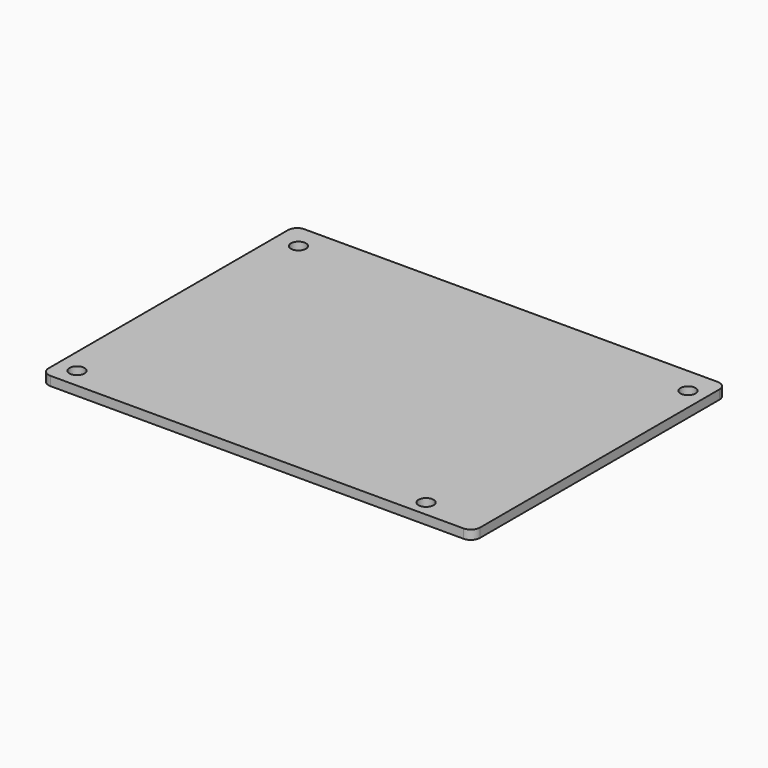
from build123d import *

# Parameters (mm, degrees)
F0_W     = 94.57797
F0_H     = 69.60828
F0_R     = 1.65
F1_DEPTH = 2
F2_R     = 2


with BuildPart() as f1:
    # F0 (on Top) → F1 (new body)
    with BuildSketch(Plane.XY):
        Rectangle(F0_W, F0_H)
        with BuildLine():
            Line((45.288985, 32.80414), (45.288985, -32.80414))
            Line((45.288985, -32.80414), (34.955818, -32.80414))
            ThreePointArc((34.955818, -32.80414), (34.265385, -32.95554), (33.574952, -32.80414))
            Line((33.574952, -32.80414), (-45.288985, -32.80414))
            Line((-45.288985, -32.80414), (-45.288985, 32.80414))
            Line((-45.288985, 32.80414), (45.288985, 32.80414))
        make_face(mode=Mode.SUBTRACT)
        with BuildLine():
            Line((34.955818, -32.80414), (45.288985, -32.80414))
            Line((45.288985, -32.80414), (45.288985, 32.80414))
            Line((45.288985, 32.80414), (-45.288985, 32.80414))
            Line((-45.288985, 32.80414), (-45.288985, -32.80414))
            Line((-45.288985, -32.80414), (33.574952, -32.80414))
            ThreePointArc((33.574952, -32.80414), (33.375642, -29.915987), (35.915385, -31.30554))
            ThreePointArc((35.915385, -31.30554), (35.654938, -32.195283), (34.955818, -32.80414))
        make_face()
        with Locations((-42.926645, -30.4926)):
            Circle(F0_R, mode=Mode.SUBTRACT)
        with Locations((-42.189245, 29.29885)):
            Circle(F0_R, mode=Mode.SUBTRACT)
        with Locations((43.409385, 29.07014)):
            Circle(F0_R, mode=Mode.SUBTRACT)
    extrude(amount=F1_DEPTH)

    # F2
    f2_edges = [f1.edges().sort_by_distance(p)[0] for p in [
        (-47.288985, -34.80414, 1),
        (-47.288985, 34.80414, 1),
        (47.288985, -34.80414, 1),
        (47.288985, 34.80414, 1),
    ]]
    fillet(f2_edges, radius=F2_R)


solid = f1.part
